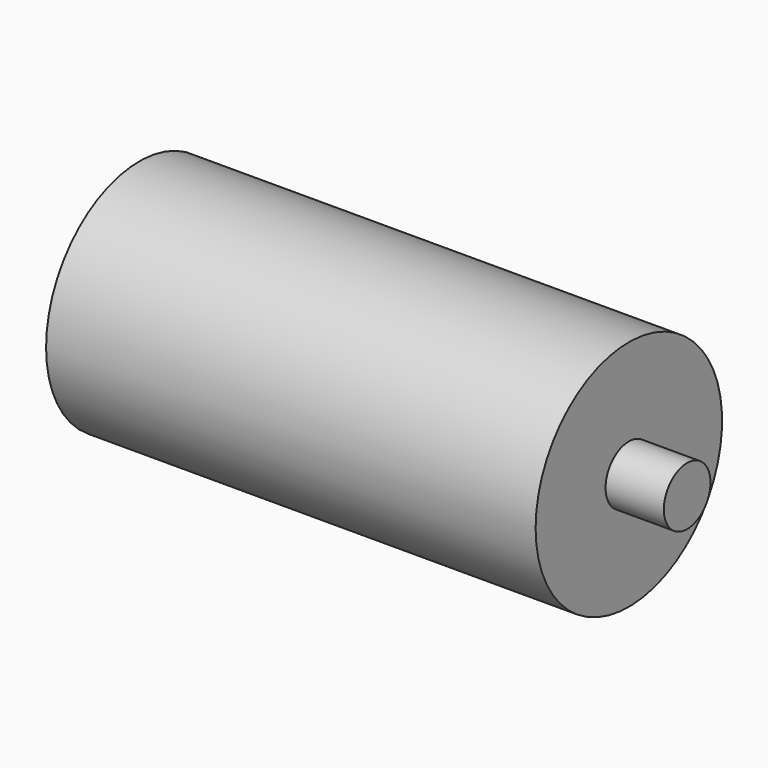
from build123d import *

# Parameters (mm, degrees)
F0_W     = 106.68
F0_H     = 25.4
F2_R     = 6.223
F3_DEPTH = 12.7
F4_R     = 6.35
F5_DEPTH = 12.7


with BuildPart() as f1:
    # F0 (on Top) → F1 (revolve)
    with BuildSketch(Plane.XY):
        with Locations((-0.314683, -23.51072)):
            Rectangle(F0_W, F0_H)
    revolve(axis=Axis((-0.314683, -10.81072, 0), (1, 0, 0)))

    # F2 (on face) → F3 (join)
    with BuildSketch(Plane(origin=(-53.654683, 0, 0), x_dir=(0, -1, 0), z_dir=(-1, 0, 0))):
        with Locations((10.81072, 0)):
            Circle(F2_R)
    extrude(amount=F3_DEPTH)

    # F4 (on face) → F5 (join)
    with BuildSketch(Plane.YZ.offset(53.025317)):
        with Locations((-10.81072, 0)):
            Circle(F4_R)
    extrude(amount=F5_DEPTH)


solid = f1.part
